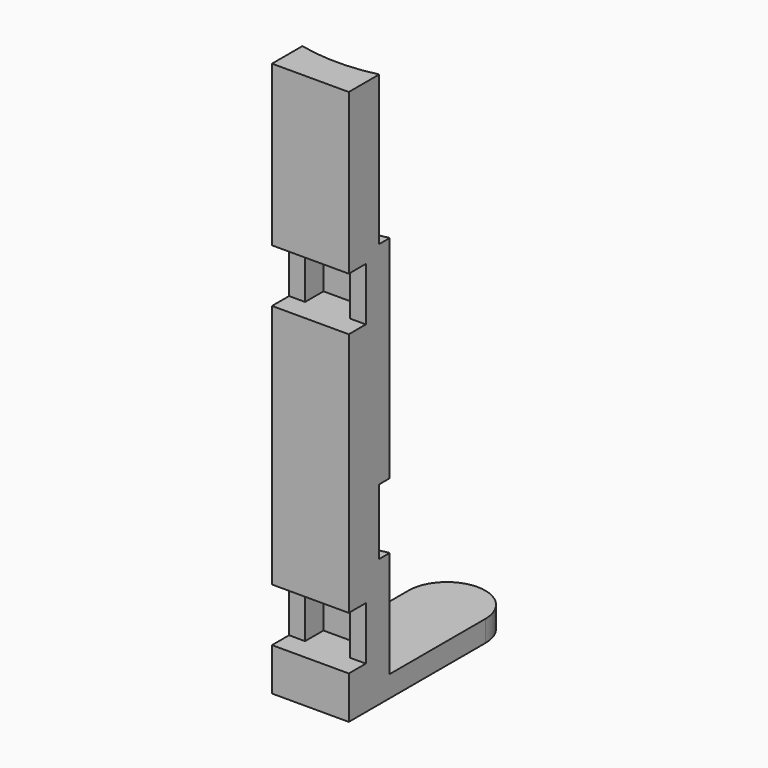
from build123d import *

# Parameters (mm, degrees)
PAD002_DEPTH    = 125
PAD003_DEPTH    = 5
SKETCH004_W     = 10.5
SKETCH004_H     = 12.5
POCKET_DEPTH    = 10.4
POCKET001_DEPTH = 15.4
POCKET002_DEPTH = 35
SKETCH016_W     = 18
SKETCH016_H     = 12.5
POCKET008_DEPTH = 5


with BuildPart() as part:
    # Sketch002 → Pad002 (new body)
    with BuildSketch(Plane.XY):
        with BuildLine():
            Line((-9, 15), (9, 15))
            Line((9, 15), (9, 27))
            ThreePointArc((-9, 27), (0, 25.85685), (9, 27))
            Line((-9, 27), (-9, 15))
        make_face()
    extrude(amount=PAD002_DEPTH)

    # Sketch003 → Pad003 (join)
    with BuildSketch(Plane.XY):
        with BuildLine():
            Line((-9, 15), (9, 15))
            Line((9, 15), (9, 55))
            ThreePointArc((9, 55), (0, 64), (-9, 55))
            Line((-9, 55), (-9, 15))
        make_face()
    extrude(amount=-PAD003_DEPTH)

    # Sketch004 → Pocket (cut)
    with BuildSketch(Plane.XZ.offset(-15)):
        with Locations((0, 11.25)):
            Rectangle(SKETCH004_W, SKETCH004_H)
        with Locations((0, 81.25)):
            Rectangle(SKETCH004_W, SKETCH004_H)
    extrude(amount=-POCKET_DEPTH, mode=Mode.SUBTRACT)

    # Sketch008 → Pocket001 (cut)
    with BuildSketch(Plane.XY.offset(25)):
        with BuildLine():
            ThreePointArc((-9, 27), (0, 25.85685), (9, 27))
            Line((9, 27), (9, 23.909518))
            ThreePointArc((-9, 23.909518), (0, 22.85685), (9, 23.909518))
            Line((-9, 27), (-9, 23.909518))
        make_face()
    extrude(amount=POCKET001_DEPTH, mode=Mode.SUBTRACT)

    # Sketch009 → Pocket002 (cut)
    with BuildSketch(Plane.XY.offset(90)):
        with BuildLine():
            ThreePointArc((-9, 27), (0, 25.85685), (9, 27))
            Line((9, 27), (9, 23.909518))
            ThreePointArc((-9, 23.909518), (0, 22.85685), (9, 23.909518))
            Line((-9, 27), (-9, 23.909518))
        make_face()
    extrude(amount=POCKET002_DEPTH, mode=Mode.SUBTRACT)

    # Sketch016 → Pocket008 (cut)
    with BuildSketch(Plane.XZ.offset(-15)):
        with Locations((0, 11.25)):
            Rectangle(SKETCH016_W, SKETCH016_H)
        with Locations((0, 81.25)):
            Rectangle(SKETCH016_W, SKETCH016_H)
    extrude(amount=-POCKET008_DEPTH, mode=Mode.SUBTRACT)


solid = part.part
